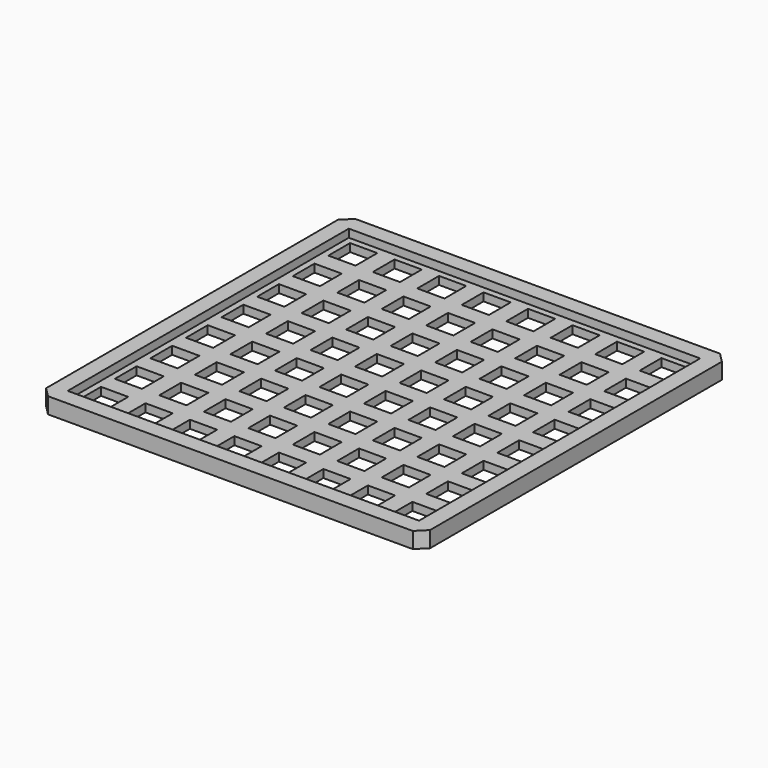
from build123d import *

# Parameters (mm, degrees)
F0_W      = 304.8
F0_H      = 304.8
F1_DEPTH  = 12.7
F2_W      = 31.75
F2_H      = 31.75
F3_DEPTH  = 6.35
F4_W      = 21.59
F4_H      = 21.59
F5_DEPTH  = 6.351
F6_SIZE   = 7.62
F7_W      = 21.59
F7_H      = 21.59
F8_DEPTH  = 0.0254
F9_W      = 278.892
F9_H      = 278.892
F10_DEPTH = 6.35


with BuildPart() as f1:
    # F0 (on Top) → F1 (new body)
    with BuildSketch(Plane.XY):
        Rectangle(F0_W, F0_H)
    extrude(amount=F1_DEPTH)

    # F2 (on face) → F3 (cut)
    with BuildSketch(Plane.XY.offset(12.7)):
        with Locations((-123.825, 123.825)):
            Rectangle(F2_W, F2_H)
        with Locations((-88.519, 123.825)):
            Rectangle(F2_W, F2_H)
        with Locations((-53.213, 123.825)):
            Rectangle(F2_W, F2_H)
        with Locations((-17.907, 123.825)):
            Rectangle(F2_W, F2_H)
        with Locations((17.399, 123.825)):
            Rectangle(F2_W, F2_H)
        with Locations((52.705, 123.825)):
            Rectangle(F2_W, F2_H)
        with Locations((88.011, 123.825)):
            Rectangle(F2_W, F2_H)
        with Locations((123.317, 123.825)):
            Rectangle(F2_W, F2_H)
        with Locations((-53.213, 88.519)):
            Rectangle(F2_W, F2_H)
        with Locations((-88.519, 88.519)):
            Rectangle(F2_W, F2_H)
        with Locations((17.399, 88.519)):
            Rectangle(F2_W, F2_H)
        with Locations((123.317, 88.519)):
            Rectangle(F2_W, F2_H)
        with Locations((52.705, 88.519)):
            Rectangle(F2_W, F2_H)
        with Locations((-123.825, 88.519)):
            Rectangle(F2_W, F2_H)
        with Locations((-17.907, 88.519)):
            Rectangle(F2_W, F2_H)
        with Locations((88.011, 88.519)):
            Rectangle(F2_W, F2_H)
        with Locations((-53.213, 53.213)):
            Rectangle(F2_W, F2_H)
        with Locations((-88.519, 53.213)):
            Rectangle(F2_W, F2_H)
        with Locations((17.399, 53.213)):
            Rectangle(F2_W, F2_H)
        with Locations((123.317, 53.213)):
            Rectangle(F2_W, F2_H)
        with Locations((52.705, 53.213)):
            Rectangle(F2_W, F2_H)
        with Locations((-123.825, 53.213)):
            Rectangle(F2_W, F2_H)
        with Locations((-17.907, 53.213)):
            Rectangle(F2_W, F2_H)
        with Locations((88.011, 53.213)):
            Rectangle(F2_W, F2_H)
        with Locations((-53.213, 17.907)):
            Rectangle(F2_W, F2_H)
        with Locations((-88.519, 17.907)):
            Rectangle(F2_W, F2_H)
        with Locations((17.399, 17.907)):
            Rectangle(F2_W, F2_H)
        with Locations((123.317, 17.907)):
            Rectangle(F2_W, F2_H)
        with Locations((52.705, 17.907)):
            Rectangle(F2_W, F2_H)
        with Locations((-123.825, 17.907)):
            Rectangle(F2_W, F2_H)
        with Locations((-17.907, 17.907)):
            Rectangle(F2_W, F2_H)
        with Locations((88.011, 17.907)):
            Rectangle(F2_W, F2_H)
        with Locations((-53.213, -17.399)):
            Rectangle(F2_W, F2_H)
        with Locations((-88.519, -17.399)):
            Rectangle(F2_W, F2_H)
        with Locations((17.399, -17.399)):
            Rectangle(F2_W, F2_H)
        with Locations((123.317, -17.399)):
            Rectangle(F2_W, F2_H)
        with Locations((52.705, -17.399)):
            Rectangle(F2_W, F2_H)
        with Locations((-123.825, -17.399)):
            Rectangle(F2_W, F2_H)
        with Locations((-17.907, -17.399)):
            Rectangle(F2_W, F2_H)
        with Locations((88.011, -17.399)):
            Rectangle(F2_W, F2_H)
        with Locations((-53.213, -52.705)):
            Rectangle(F2_W, F2_H)
        with Locations((-88.519, -52.705)):
            Rectangle(F2_W, F2_H)
        with Locations((17.399, -52.705)):
            Rectangle(F2_W, F2_H)
        with Locations((123.317, -52.705)):
            Rectangle(F2_W, F2_H)
        with Locations((52.705, -52.705)):
            Rectangle(F2_W, F2_H)
        with Locations((-123.825, -52.705)):
            Rectangle(F2_W, F2_H)
        with Locations((-17.907, -52.705)):
            Rectangle(F2_W, F2_H)
        with Locations((88.011, -52.705)):
            Rectangle(F2_W, F2_H)
        with Locations((-53.213, -88.011)):
            Rectangle(F2_W, F2_H)
        with Locations((-88.519, -88.011)):
            Rectangle(F2_W, F2_H)
        with Locations((17.399, -88.011)):
            Rectangle(F2_W, F2_H)
        with Locations((123.317, -88.011)):
            Rectangle(F2_W, F2_H)
        with Locations((52.705, -88.011)):
            Rectangle(F2_W, F2_H)
        with Locations((-123.825, -88.011)):
            Rectangle(F2_W, F2_H)
        with Locations((-17.907, -88.011)):
            Rectangle(F2_W, F2_H)
        with Locations((88.011, -88.011)):
            Rectangle(F2_W, F2_H)
        with Locations((-53.213, -123.317)):
            Rectangle(F2_W, F2_H)
        with Locations((-88.519, -123.317)):
            Rectangle(F2_W, F2_H)
        with Locations((17.399, -123.317)):
            Rectangle(F2_W, F2_H)
        with Locations((123.317, -123.317)):
            Rectangle(F2_W, F2_H)
        with Locations((52.705, -123.317)):
            Rectangle(F2_W, F2_H)
        with Locations((-123.825, -123.317)):
            Rectangle(F2_W, F2_H)
        with Locations((-17.907, -123.317)):
            Rectangle(F2_W, F2_H)
        with Locations((88.011, -123.317)):
            Rectangle(F2_W, F2_H)
    extrude(amount=-F3_DEPTH, mode=Mode.SUBTRACT)

    # F4 (on face) → F5 (cut, through all)
    with BuildSketch(Plane.XY.offset(6.35)):
        with Locations((-123.825, 123.825)):
            Rectangle(F4_W, F4_H)
        with Locations((-123.825, 88.519)):
            Rectangle(F4_W, F4_H)
        with Locations((-123.825, 53.213)):
            Rectangle(F4_W, F4_H)
        with Locations((-123.825, 17.907)):
            Rectangle(F4_W, F4_H)
        with Locations((-123.825, -17.399)):
            Rectangle(F4_W, F4_H)
        with Locations((-123.825, -52.705)):
            Rectangle(F4_W, F4_H)
        with Locations((-123.825, -88.011)):
            Rectangle(F4_W, F4_H)
        with Locations((-123.825, -123.317)):
            Rectangle(F4_W, F4_H)
        with Locations((-88.519, 123.825)):
            Rectangle(F4_W, F4_H)
        with Locations((-88.519, 88.519)):
            Rectangle(F4_W, F4_H)
        with Locations((-88.519, 53.213)):
            Rectangle(F4_W, F4_H)
        with Locations((-88.519, 17.907)):
            Rectangle(F4_W, F4_H)
        with Locations((-88.519, -17.399)):
            Rectangle(F4_W, F4_H)
        with Locations((-88.519, -52.705)):
            Rectangle(F4_W, F4_H)
        with Locations((-88.519, -88.011)):
            Rectangle(F4_W, F4_H)
        with Locations((-88.519, -123.317)):
            Rectangle(F4_W, F4_H)
        with Locations((-53.213, 123.825)):
            Rectangle(F4_W, F4_H)
        with Locations((-53.213, 88.519)):
            Rectangle(F4_W, F4_H)
        with Locations((-53.213, 53.213)):
            Rectangle(F4_W, F4_H)
        with Locations((-53.213, 17.907)):
            Rectangle(F4_W, F4_H)
        with Locations((-53.213, -17.399)):
            Rectangle(F4_W, F4_H)
        with Locations((-53.213, -52.705)):
            Rectangle(F4_W, F4_H)
        with Locations((-53.213, -88.011)):
            Rectangle(F4_W, F4_H)
        with Locations((-53.213, -123.317)):
            Rectangle(F4_W, F4_H)
        with Locations((-17.907, 123.825)):
            Rectangle(F4_W, F4_H)
        with Locations((-17.907, 88.519)):
            Rectangle(F4_W, F4_H)
        with Locations((-17.907, 53.213)):
            Rectangle(F4_W, F4_H)
        with Locations((-17.907, 17.907)):
            Rectangle(F4_W, F4_H)
        with Locations((-17.907, -17.399)):
            Rectangle(F4_W, F4_H)
        with Locations((-17.907, -52.705)):
            Rectangle(F4_W, F4_H)
        with Locations((-17.907, -88.011)):
            Rectangle(F4_W, F4_H)
        with Locations((-17.907, -123.317)):
            Rectangle(F4_W, F4_H)
        with Locations((17.399, 123.825)):
            Rectangle(F4_W, F4_H)
        with Locations((17.399, 88.519)):
            Rectangle(F4_W, F4_H)
        with Locations((17.399, 53.213)):
            Rectangle(F4_W, F4_H)
        with Locations((17.399, 17.907)):
            Rectangle(F4_W, F4_H)
        with Locations((17.399, -17.399)):
            Rectangle(F4_W, F4_H)
        with Locations((17.399, -52.705)):
            Rectangle(F4_W, F4_H)
        with Locations((17.399, -88.011)):
            Rectangle(F4_W, F4_H)
        with Locations((17.399, -123.317)):
            Rectangle(F4_W, F4_H)
        with Locations((52.705, 123.825)):
            Rectangle(F4_W, F4_H)
        with Locations((52.705, 88.519)):
            Rectangle(F4_W, F4_H)
        with Locations((52.705, 53.213)):
            Rectangle(F4_W, F4_H)
        with Locations((52.705, 17.907)):
            Rectangle(F4_W, F4_H)
        with Locations((52.705, -17.399)):
            Rectangle(F4_W, F4_H)
        with Locations((52.705, -52.705)):
            Rectangle(F4_W, F4_H)
        with Locations((52.705, -88.011)):
            Rectangle(F4_W, F4_H)
        with Locations((52.705, -123.317)):
            Rectangle(F4_W, F4_H)
        with Locations((88.011, 123.825)):
            Rectangle(F4_W, F4_H)
        with Locations((88.011, 88.519)):
            Rectangle(F4_W, F4_H)
        with Locations((88.011, 53.213)):
            Rectangle(F4_W, F4_H)
        with Locations((88.011, 17.907)):
            Rectangle(F4_W, F4_H)
        with Locations((88.011, -17.399)):
            Rectangle(F4_W, F4_H)
        with Locations((88.011, -52.705)):
            Rectangle(F4_W, F4_H)
        with Locations((88.011, -88.011)):
            Rectangle(F4_W, F4_H)
        with Locations((88.011, -123.317)):
            Rectangle(F4_W, F4_H)
        with Locations((123.317, 123.825)):
            Rectangle(F4_W, F4_H)
        with Locations((123.317, 88.519)):
            Rectangle(F4_W, F4_H)
        with Locations((123.317, 53.213)):
            Rectangle(F4_W, F4_H)
        with Locations((123.317, 17.907)):
            Rectangle(F4_W, F4_H)
        with Locations((123.317, -17.399)):
            Rectangle(F4_W, F4_H)
        with Locations((123.317, -52.705)):
            Rectangle(F4_W, F4_H)
        with Locations((123.317, -88.011)):
            Rectangle(F4_W, F4_H)
        with Locations((123.317, -123.317)):
            Rectangle(F4_W, F4_H)
    extrude(amount=-F5_DEPTH, mode=Mode.SUBTRACT)

    # F6
    f6_edges = [f1.edges().sort_by_distance(p)[0] for p in [
        (-152.4, -152.4, 6.35),
        (152.4, -152.4, 6.35),
        (152.4, 152.4, 6.35),
        (-152.4, 152.4, 6.35),
    ]]
    chamfer(f6_edges, length=F6_SIZE)

    # F7 (on face) → F8 (join)
    with BuildSketch(Plane(origin=(0, 0, 0), x_dir=(1, 0, 0), z_dir=(0, 0, -1))):
        Polygon((-99.314, 125.095), (-113.03, 125.095), (-113.03, 112.522), (-125.095, 112.522), (-125.095, 98.806), (-113.03, 98.806), (-113.03, 77.216), (-125.095, 77.216), (-125.095, 63.5), (-113.03, 63.5), (-113.03, 41.91), (-125.095, 41.91), (-125.095, 28.194), (-113.03, 28.194), (-113.03, 6.604), (-125.095, 6.604), (-125.095, -7.112), (-113.03, -7.112), (-113.03, -28.702), (-125.095, -28.702), (-125.095, -42.418), (-113.03, -42.418), (-113.03, -64.008), (-125.095, -64.008), (-125.095, -77.724), (-113.03, -77.724), (-113.03, -99.314), (-125.095, -99.314), (-125.095, -113.03), (-113.03, -113.03), (-113.03, -125.095), (-99.314, -125.095), (-99.314, -113.03), (-77.724, -113.03), (-77.724, -125.095), (-64.008, -125.095), (-64.008, -113.03), (-42.418, -113.03), (-42.418, -125.095), (-28.702, -125.095), (-28.702, -113.03), (-7.112, -113.03), (-7.112, -125.095), (6.604, -125.095), (6.604, -113.03), (28.194, -113.03), (28.194, -125.095), (41.91, -125.095), (41.91, -113.03), (63.5, -113.03), (63.5, -125.095), (77.216, -125.095), (77.216, -113.03), (98.806, -113.03), (98.806, -125.095), (112.522, -125.095), (112.522, -113.03), (125.095, -113.03), (125.095, -99.314), (112.522, -99.314), (112.522, -77.724), (125.095, -77.724), (125.095, -64.008), (112.522, -64.008), (112.522, -42.418), (125.095, -42.418), (125.095, -28.702), (112.522, -28.702), (112.522, -7.112), (125.095, -7.112), (125.095, 6.604), (112.522, 6.604), (112.522, 28.194), (125.095, 28.194), (125.095, 41.91), (112.522, 41.91), (112.522, 63.5), (125.095, 63.5), (125.095, 77.216), (112.522, 77.216), (112.522, 98.806), (125.095, 98.806), (125.095, 112.522), (112.522, 112.522), (112.522, 125.095), (98.806, 125.095), (98.806, 112.522), (77.216, 112.522), (77.216, 125.095), (63.5, 125.095), (63.5, 112.522), (41.91, 112.522), (41.91, 125.095), (28.194, 125.095), (28.194, 112.522), (6.604, 112.522), (6.604, 125.095), (-7.112, 125.095), (-7.112, 112.522), (-28.702, 112.522), (-28.702, 125.095), (-42.418, 125.095), (-42.418, 112.522), (-64.008, 112.522), (-64.008, 125.095), (-77.724, 125.095), (-77.724, 112.522), (-99.314, 112.522), align=None)
        with Locations((-88.519, -88.519)):
            Rectangle(F7_W, F7_H, mode=Mode.SUBTRACT)
        with Locations((-53.213, -88.519)):
            Rectangle(F7_W, F7_H, mode=Mode.SUBTRACT)
        with Locations((-17.907, -88.519)):
            Rectangle(F7_W, F7_H, mode=Mode.SUBTRACT)
        with Locations((-88.519, -53.213)):
            Rectangle(F7_W, F7_H, mode=Mode.SUBTRACT)
        with Locations((-88.519, -17.907)):
            Rectangle(F7_W, F7_H, mode=Mode.SUBTRACT)
        with Locations((-53.213, -53.213)):
            Rectangle(F7_W, F7_H, mode=Mode.SUBTRACT)
        with Locations((-17.907, -53.213)):
            Rectangle(F7_W, F7_H, mode=Mode.SUBTRACT)
        with Locations((-53.213, -17.907)):
            Rectangle(F7_W, F7_H, mode=Mode.SUBTRACT)
        with Locations((-17.907, -17.907)):
            Rectangle(F7_W, F7_H, mode=Mode.SUBTRACT)
        with Locations((17.399, -88.519)):
            Rectangle(F7_W, F7_H, mode=Mode.SUBTRACT)
        with Locations((52.705, -88.519)):
            Rectangle(F7_W, F7_H, mode=Mode.SUBTRACT)
        with Locations((88.011, -88.519)):
            Rectangle(F7_W, F7_H, mode=Mode.SUBTRACT)
        with Locations((17.399, -53.213)):
            Rectangle(F7_W, F7_H, mode=Mode.SUBTRACT)
        with Locations((52.705, -53.213)):
            Rectangle(F7_W, F7_H, mode=Mode.SUBTRACT)
        with Locations((17.399, -17.907)):
            Rectangle(F7_W, F7_H, mode=Mode.SUBTRACT)
        with Locations((52.705, -17.907)):
            Rectangle(F7_W, F7_H, mode=Mode.SUBTRACT)
        with Locations((88.011, -53.213)):
            Rectangle(F7_W, F7_H, mode=Mode.SUBTRACT)
        with Locations((88.011, -17.907)):
            Rectangle(F7_W, F7_H, mode=Mode.SUBTRACT)
        with Locations((-88.519, 17.399)):
            Rectangle(F7_W, F7_H, mode=Mode.SUBTRACT)
        with Locations((-88.519, 52.705)):
            Rectangle(F7_W, F7_H, mode=Mode.SUBTRACT)
        with Locations((-53.213, 17.399)):
            Rectangle(F7_W, F7_H, mode=Mode.SUBTRACT)
        with Locations((-17.907, 17.399)):
            Rectangle(F7_W, F7_H, mode=Mode.SUBTRACT)
        with Locations((-53.213, 52.705)):
            Rectangle(F7_W, F7_H, mode=Mode.SUBTRACT)
        with Locations((-17.907, 52.705)):
            Rectangle(F7_W, F7_H, mode=Mode.SUBTRACT)
        with Locations((-88.519, 88.011)):
            Rectangle(F7_W, F7_H, mode=Mode.SUBTRACT)
        with Locations((-53.213, 88.011)):
            Rectangle(F7_W, F7_H, mode=Mode.SUBTRACT)
        with Locations((-17.907, 88.011)):
            Rectangle(F7_W, F7_H, mode=Mode.SUBTRACT)
        with Locations((17.399, 17.399)):
            Rectangle(F7_W, F7_H, mode=Mode.SUBTRACT)
        with Locations((52.705, 17.399)):
            Rectangle(F7_W, F7_H, mode=Mode.SUBTRACT)
        with Locations((17.399, 52.705)):
            Rectangle(F7_W, F7_H, mode=Mode.SUBTRACT)
        with Locations((52.705, 52.705)):
            Rectangle(F7_W, F7_H, mode=Mode.SUBTRACT)
        with Locations((88.011, 17.399)):
            Rectangle(F7_W, F7_H, mode=Mode.SUBTRACT)
        with Locations((88.011, 52.705)):
            Rectangle(F7_W, F7_H, mode=Mode.SUBTRACT)
        with Locations((17.399, 88.011)):
            Rectangle(F7_W, F7_H, mode=Mode.SUBTRACT)
        with Locations((52.705, 88.011)):
            Rectangle(F7_W, F7_H, mode=Mode.SUBTRACT)
        with Locations((88.011, 88.011)):
            Rectangle(F7_W, F7_H, mode=Mode.SUBTRACT)
    extrude(amount=F8_DEPTH)

    # F9 (on face) → F10 (cut, through all)
    with BuildSketch(Plane.XY.offset(12.7)):
        with Locations((-0.254, 0.254)):
            Rectangle(F9_W, F9_H)
    extrude(amount=-F10_DEPTH, mode=Mode.SUBTRACT)


solid = f1.part
